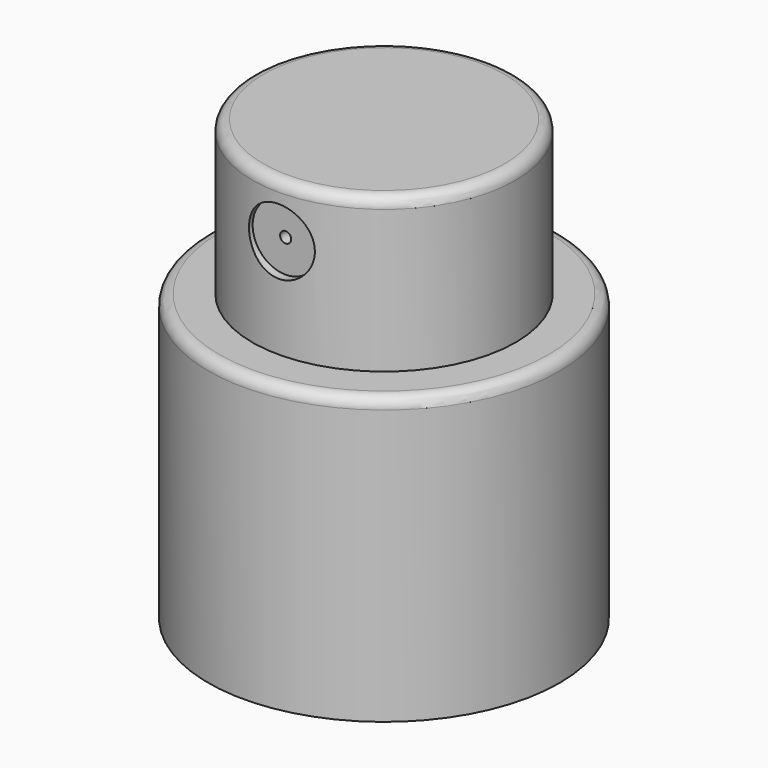
from build123d import *

# Parameters (mm, degrees)
F0_R     = 6
F1_DEPTH = 20
F0_R_2   = 8
F2_DEPTH = 13
F4_R     = 0.25
F5_DEPTH = 23.7
F4_R_2   = 1.5
F6_DEPTH = 19.4
F7_R     = 0.5


with BuildPart() as f1:
    # F0 (on Top) → F1 (new body)
    with BuildSketch(Plane.XY):
        Circle(F0_R)
    extrude(amount=F1_DEPTH)

    # F0 (on Top) → F2 (join)
    with BuildSketch(Plane.XY):
        Circle(F0_R_2)
        Circle(F0_R, mode=Mode.SUBTRACT)
    extrude(amount=F2_DEPTH)

    # F4 (on offset) → F5 (cut)
    with BuildSketch(Plane.XZ.offset(25)):
        with Locations((0, 17.539654)):
            Circle(F4_R)
    extrude(amount=-F5_DEPTH, mode=Mode.SUBTRACT)

    # F4 (on offset) → F6 (cut)
    with BuildSketch(Plane.XZ.offset(25)):
        with Locations((0, 17.539654)):
            Circle(F4_R_2)
        with Locations((0, 17.539654)):
            Circle(F4_R, mode=Mode.SUBTRACT)
    extrude(amount=-F6_DEPTH, mode=Mode.SUBTRACT)

    # F7
    f7_edges = [f1.edges().sort_by_distance(p)[0] for p in [
        (-8, 0, 13),
        (-6, 0, 20),
    ]]
    fillet(f7_edges, radius=F7_R)


solid = f1.part
